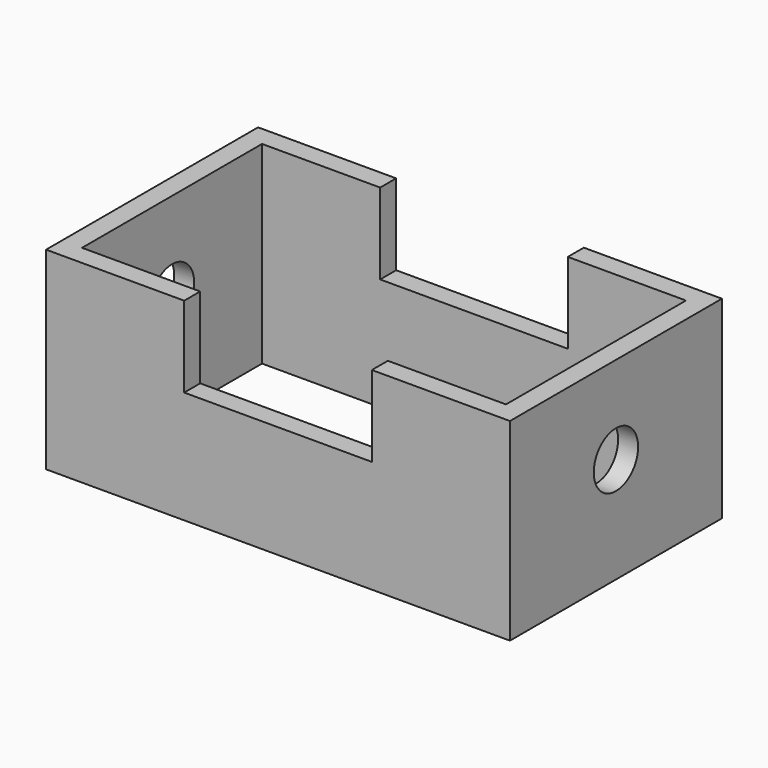
from build123d import *

# Parameters (mm, degrees)
F0_W          = 152.3185074329
F0_H          = 86.9983956218
F0_W_2        = 139.1974389553
F0_H_2        = 73.8773271441
F1_DEPTH      = 63.5
F2_W          = 61.6119801998
F2_H          = 38.222245872
F3_DEPTH      = 50.8
F3_DEPTH_BACK = 50.8
F4_R          = 9.10092064
F5_DEPTH      = 101.6
F5_DEPTH_BACK = 101.6


with BuildPart() as f1:
    # F0 (on Top) → F1 (new body)
    with BuildSketch(Plane.XY):
        Rectangle(F0_W, F0_H)
        Rectangle(F0_W_2, F0_H_2, mode=Mode.SUBTRACT)
    extrude(amount=F1_DEPTH)

    # F2 (on Front) → F3 (cut, two sides)
    with BuildSketch(Plane.XZ) as f3_sk:
        with Locations((0, 56.0497865081)):
            Rectangle(F2_W, F2_H)
    extrude(amount=F3_DEPTH, mode=Mode.SUBTRACT)
    extrude(f3_sk.sketch, amount=-F3_DEPTH_BACK, mode=Mode.SUBTRACT)

    # F4 (on Right) → F5 (cut, two sides)
    with BuildSketch(Plane.YZ) as f5_sk:
        with Locations((0, 34.656740725)):
            Circle(F4_R)
    extrude(amount=-F5_DEPTH, mode=Mode.SUBTRACT)
    extrude(f5_sk.sketch, amount=F5_DEPTH_BACK, mode=Mode.SUBTRACT)


solid = f1.part
